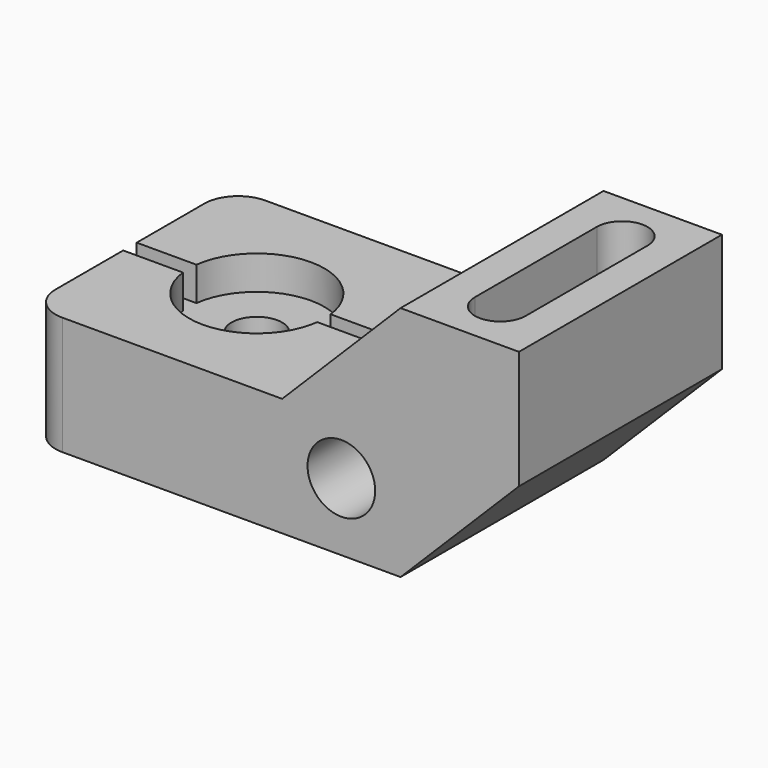
from build123d import *

# Parameters (mm, degrees)
F0_R           = 10.16
F1_DEPTH       = 38.1
F3_DEPTH       = 27.94
F5_D           = 15.24
F5_CBORE_D     = 40.64
F5_CBORE_DEPTH = 10.16
F6_W           = 5.08
F6_H           = 10.16
F7_DEPTH       = 76.2
F8_R           = 10.16


with BuildPart() as f1:
    # F0 (on Front) → F1 (new body, symmetric)
    with BuildSketch(Plane.XZ):
        Polygon((0, 35.56), (0, 0), (111.76, 0), (147.32, 35.56), (147.32, 71.12), (111.76, 71.12), (76.2, 35.56), align=None)
        with Locations((93.98, 20.32)):
            Circle(F0_R, mode=Mode.SUBTRACT)
    extrude(amount=F1_DEPTH, both=True)

    # F2 (on face) → F3 (cut)
    with BuildSketch(Plane.XY.offset(71.12)):
        with BuildLine():
            ThreePointArc((137.16, 22.86), (129.54, 30.48), (121.92, 22.86))
            Line((121.92, 22.86), (121.92, -22.86))
            ThreePointArc((121.92, -22.86), (129.54, -30.48), (137.16, -22.86))
            Line((137.16, -22.86), (137.16, 22.86))
        make_face()
    extrude(amount=-F3_DEPTH, mode=Mode.SUBTRACT)

    # F5 (through all)
    with Locations(Plane.XY.offset(35.56)):
        with Locations((38.1, 0)):
            CounterBoreHole(F5_D / 2, F5_CBORE_D / 2, F5_CBORE_DEPTH)

    # F6 (on face) → F7 (cut)
    with BuildSketch(Plane(origin=(0, 0, 0), x_dir=(0, -1, 0), z_dir=(-1, 0, 0))):
        with Locations((0, 30.48)):
            Rectangle(F6_W, F6_H)
    extrude(amount=-F7_DEPTH, mode=Mode.SUBTRACT)

    # F8
    f8_edges = [f1.edges().sort_by_distance(p)[0] for p in [
        (0, -38.1, 17.78),
        (0, 38.1, 17.78),
    ]]
    fillet(f8_edges, radius=F8_R)


solid = f1.part
